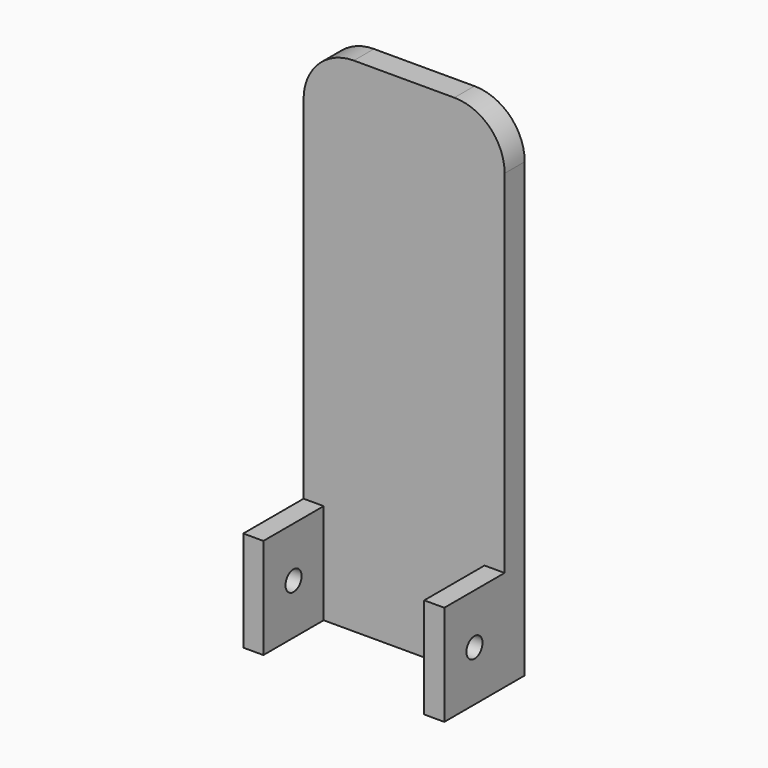
from build123d import *

# Parameters (mm, degrees)
F1_DEPTH = 3.175
F2_W     = 2.54
F2_H     = 12.7
F3_DEPTH = 12.7
F5_D     = 2.54


with BuildPart() as f1:
    # F0 (on Front) → F1 (new body)
    with BuildSketch(Plane.XZ):
        with BuildLine():
            Line((-12.7, -31.75), (12.7, -31.75))
            Line((12.7, -31.75), (12.7, 25.4))
            ThreePointArc((12.7, 25.4), (10.840128, 29.890128), (6.35, 31.75))
            Line((6.35, 31.75), (-6.35, 31.75))
            ThreePointArc((-6.35, 31.75), (-10.840128, 29.890128), (-12.7, 25.4))
            Line((-12.7, 25.4), (-12.7, -31.75))
        make_face()
    extrude(amount=F1_DEPTH)

    # F2 (on Front) → F3 (join)
    with BuildSketch(Plane.XZ):
        with Locations((11.43, -25.4)):
            Rectangle(F2_W, F2_H)
        with Locations((-11.43, -25.4)):
            Rectangle(F2_W, F2_H)
    extrude(amount=F3_DEPTH)

    # F5 (through all)
    with Locations(Plane.YZ.offset(12.7)):
        with Locations((-7.9375, -25.4)):
            Hole(F5_D / 2)


solid = f1.part
